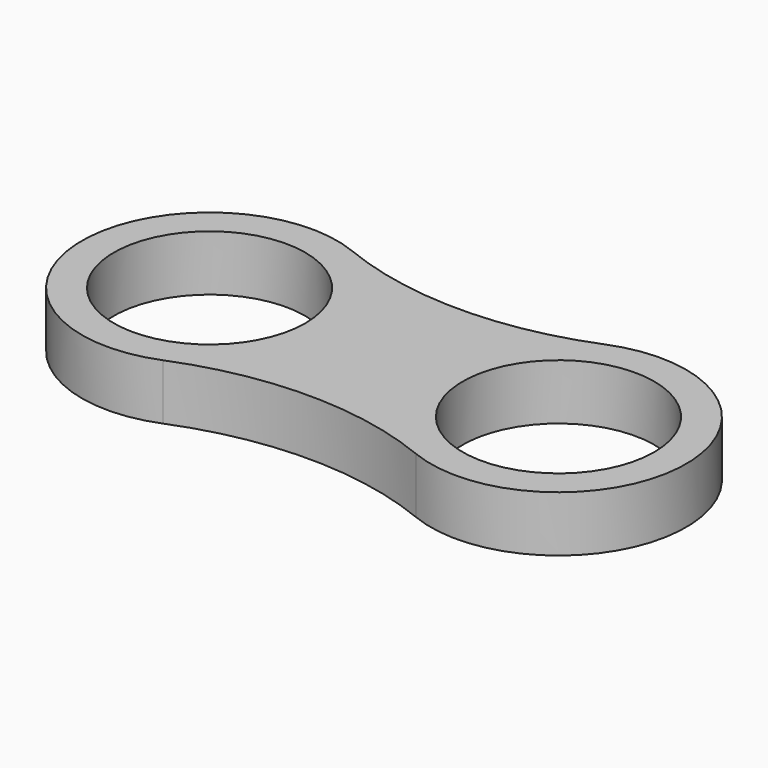
from build123d import *

# Parameters (mm, degrees)
F0_R     = 11.25
F1_DEPTH = 6.55


with BuildPart() as f1:
    # F0 (on Top) → F1 (new body)
    with BuildSketch(Plane.XY):
        with BuildLine():
            ThreePointArc((-35.367126, -13.902184), (-20.5, -11.004665), (-5.632874, -13.902184))
            ThreePointArc((-5.632874, -13.902184), (15, 0), (-5.632874, 13.902184))
            ThreePointArc((-5.632874, 13.902184), (-20.5, 11.004665), (-35.367126, 13.902184))
            ThreePointArc((-35.367126, 13.902184), (-56, 0), (-35.367126, -13.902184))
        make_face()
        with Locations((-41, 0)):
            Circle(F0_R, mode=Mode.SUBTRACT)
        Circle(F0_R, mode=Mode.SUBTRACT)
    extrude(amount=F1_DEPTH)


solid = f1.part
